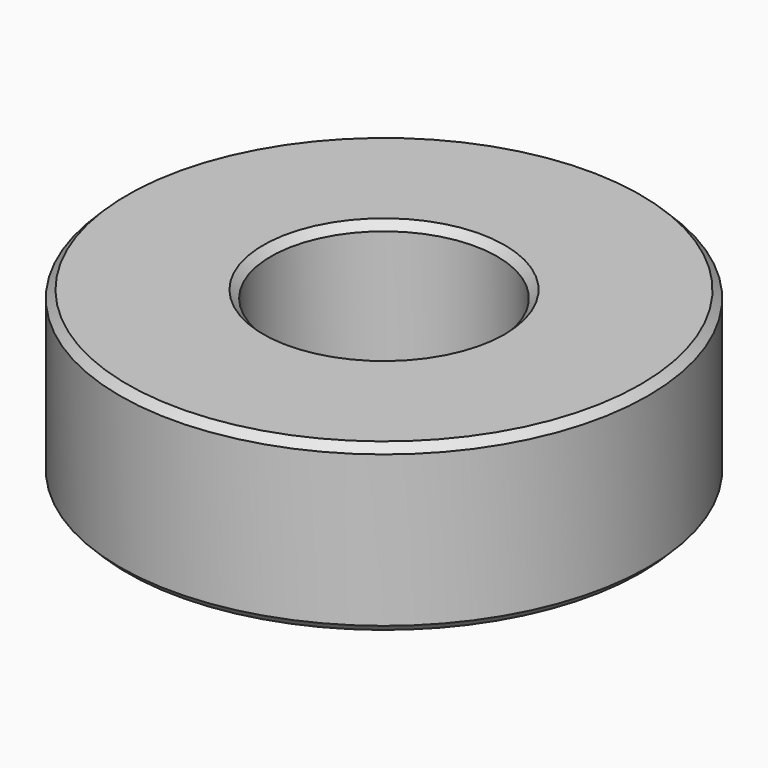
from build123d import *

# Parameters (mm, degrees)
F0_R     = 17.5
F1_DEPTH = 11
F2_SIZE  = 0.5
F3_R     = 7.5
F4_DEPTH = 40.7
F5_SIZE  = 0.5


with BuildPart() as f1:
    # F0 (on Top) → F1 (new body)
    with BuildSketch(Plane.XY):
        Circle(F0_R)
    extrude(amount=F1_DEPTH)

    # F2
    f2_edges = [f1.edges().sort_by_distance(p)[0] for p in [
        (-17.5, 0, 11),
        (-17.5, 0, 0),
    ]]
    chamfer(f2_edges, length=F2_SIZE)

    # F3 (on face) → F4 (cut)
    with BuildSketch(Plane.XY.offset(11)):
        Circle(F3_R)
    extrude(amount=-F4_DEPTH, mode=Mode.SUBTRACT)

    # F5
    f5_edges = [f1.edges().sort_by_distance(p)[0] for p in [
        (-7.5, 0, 11),
        (-7.5, 0, 0),
    ]]
    chamfer(f5_edges, length=F5_SIZE)


solid = f1.part
